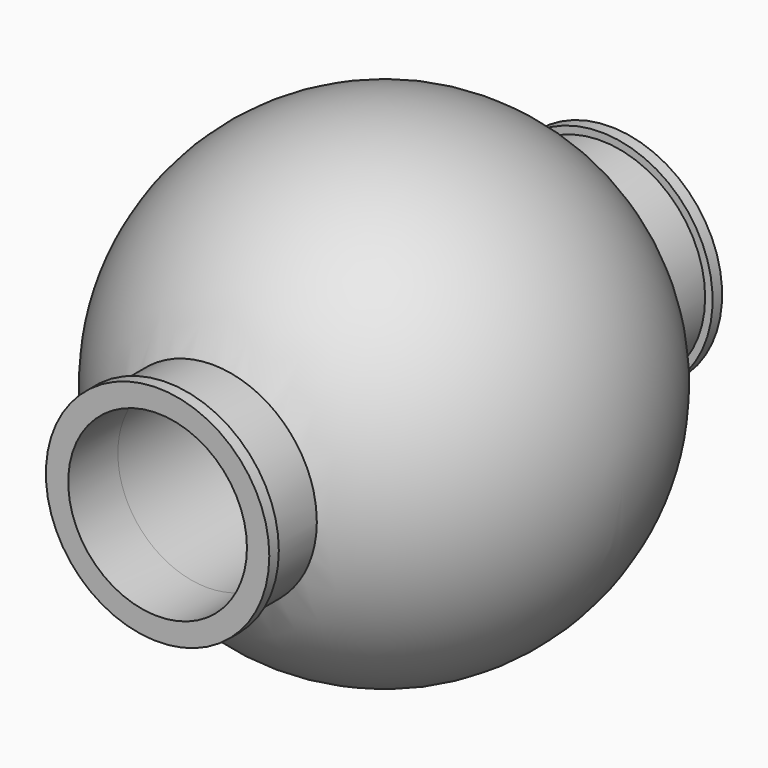
from build123d import *

# Parameters (mm, degrees)
F2_R     = 1.5
F3_DEPTH = 12.5
F2_R_2   = 1.75
F4_DEPTH = 4.75
F5_R     = 1.875
F5_R_2   = 1.75
F6_DEPTH = 0.2
F7_R     = 1.875
F7_R_2   = 1.75
F8_DEPTH = 0.2


with BuildPart() as f1:
    # F0 (on Front) → F1 (revolve)
    with BuildSketch(Plane.XZ):
        with BuildLine():
            ThreePointArc((-4, 0), (0, -4), (4, 0))
            Line((4, 0), (-4, 0))
        make_face()
    revolve(axis=Axis((3.253754, 0, 0), (1, 0, 0)))

    # F2 (on Front) → F3 (cut, symmetric)
    with BuildSketch(Plane.XZ):
        Circle(F2_R)
    extrude(amount=F3_DEPTH, both=True, mode=Mode.SUBTRACT)

    # F2 (on Front) → F4 (join, symmetric)
    with BuildSketch(Plane.XZ):
        Circle(F2_R_2)
        Circle(F2_R, mode=Mode.SUBTRACT)
    extrude(amount=F4_DEPTH, both=True)

    # F5 (on face) → F6 (join)
    with BuildSketch(Plane.XZ.offset(4.75)):
        Circle(F5_R)
        Circle(F5_R_2, mode=Mode.SUBTRACT)
    extrude(amount=-F6_DEPTH)

    # F7 (on face) → F8 (join)
    with BuildSketch(Plane(origin=(0, 4.75, 0), x_dir=(-1, 0, 0), z_dir=(0, 1, 0))):
        Circle(F7_R)
        Circle(F7_R_2, mode=Mode.SUBTRACT)
    extrude(amount=-F8_DEPTH)


solid = f1.part
